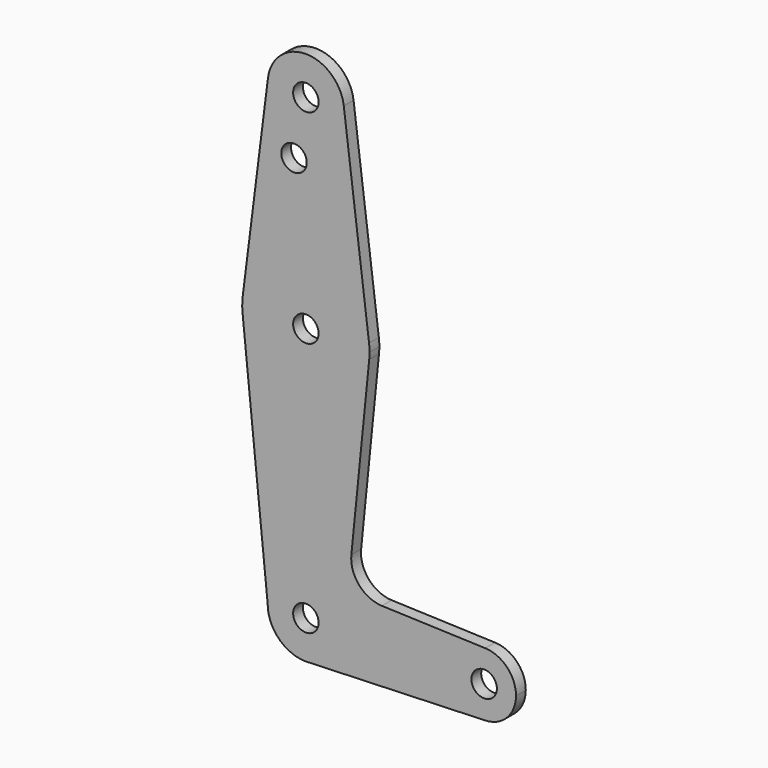
from build123d import *

# Parameters (mm, degrees)
F1_R     = 3.175
F2_DEPTH = 3.048


with BuildPart() as f2:
    # F1 (on offset) → F2 (new body)
    with BuildSketch(Plane.XZ.offset(152.4)):
        with BuildLine():
            ThreePointArc((-9.450293, 115.490625), (-0.596483, 104.793695), (9.525, 114.3))
            ThreePointArc((9.525, 114.3), (9.506305, 114.896483), (9.450293, 115.490625))
            ThreePointArc((9.450293, 115.490625), (0, 123.825), (-9.450293, 115.490625))
        make_face()
        with Locations((0, 114.3)):
            Circle(F1_R, mode=Mode.SUBTRACT)
        with BuildLine():
            ThreePointArc((9.450293, 115.490625), (9.506305, 114.896483), (9.525, 114.3))
            ThreePointArc((9.525, 114.3), (-0.596483, 104.793695), (-9.450293, 115.490625))
            Line((-9.450293, 115.490625), (-15.750488, 65.484375))
            ThreePointArc((-15.750488, 65.484375), (0, 79.375), (15.750488, 65.484375))
            Line((15.750488, 65.484375), (9.450293, 115.490625))
        make_face()
        with Locations((-2.958536, 100.0252)):
            Circle(F1_R, mode=Mode.SUBTRACT)
        with BuildLine():
            ThreePointArc((15.875, 63.5), (15.843841, 64.494139), (15.750488, 65.484375))
            ThreePointArc((15.750488, 65.484375), (0, 79.375), (-15.750488, 65.484375))
            ThreePointArc((-15.750488, 65.484375), (-15.873819, 63.693615), (-15.794203, 61.90038))
            ThreePointArc((-15.794203, 61.90038), (0, 47.625), (15.794203, 61.90038))
            ThreePointArc((15.794203, 61.90038), (15.854788, 62.699171), (15.875, 63.5))
        make_face()
        with Locations((0, 63.5)):
            Circle(F1_R, mode=Mode.SUBTRACT)
        with BuildLine():
            ThreePointArc((15.794203, 61.90038), (0, 47.625), (-15.794203, 61.90038))
            Line((-15.794203, 61.90038), (-9.525, 0))
            ThreePointArc((-9.525, 0), (0, 9.525), (9.525, 0))
            ThreePointArc((9.525, 0), (6.970557, -6.491299), (0.677344, -9.500886))
            Line((0.677344, -9.500886), (44.732405, -7.932475))
            ThreePointArc((44.732405, -7.932475), (36.5125, 0), (44.732405, 7.932475))
            Line((44.732405, 7.932475), (18.968326, 8.849706))
            ThreePointArc((18.968326, 8.849706), (13.261203, 11.567463), (11.340834, 17.589892))
            Line((11.340834, 17.589892), (15.794203, 61.90038))
        make_face()
        with BuildLine():
            ThreePointArc((9.525, 0), (0, 9.525), (-9.525, 0))
            ThreePointArc((-9.525, 0), (-6.735192, -6.735192), (0, -9.525))
            Line((0, -9.525), (0.677344, -9.500886))
            ThreePointArc((0.677344, -9.500886), (6.970557, -6.491299), (9.525, 0))
        make_face()
        Circle(F1_R, mode=Mode.SUBTRACT)
        with BuildLine():
            Line((0.677344, -9.500886), (0, -9.525))
            ThreePointArc((0, -9.525), (0.338886, -9.51897), (0.677344, -9.500886))
        make_face()
        with BuildLine():
            ThreePointArc((52.3875, 0), (50.161633, 5.51191), (44.732405, 7.932475))
            ThreePointArc((44.732405, 7.932475), (36.5125, 0), (44.732405, -7.932475))
            ThreePointArc((44.732405, -7.932475), (50.161633, -5.51191), (52.3875, 0))
        make_face()
        with Locations((44.45, 0)):
            Circle(F1_R, mode=Mode.SUBTRACT)
    extrude(amount=F2_DEPTH)


solid = f2.part
